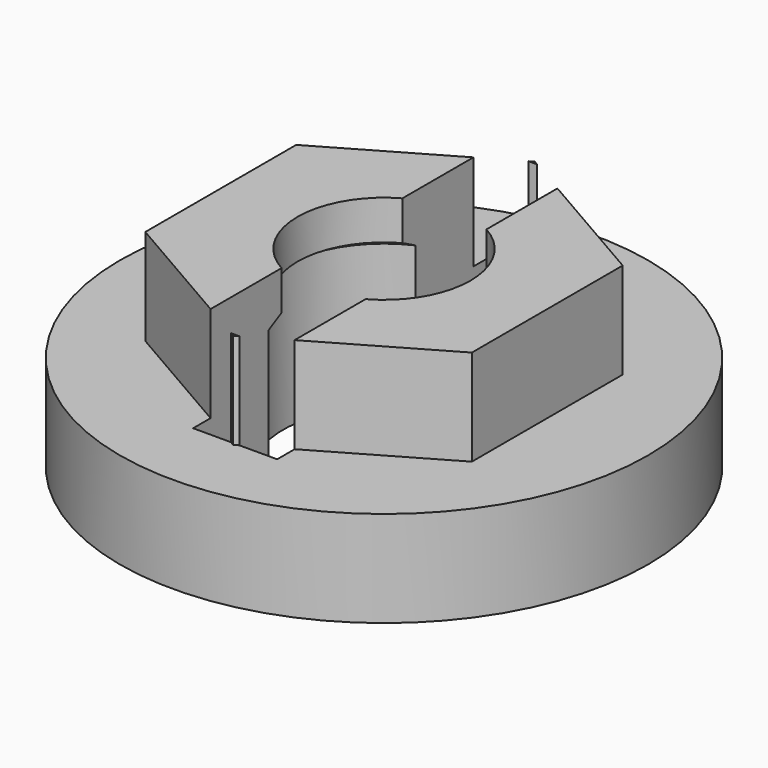
from build123d import *

# Parameters (mm, degrees)
F5_DEPTH  = 4
F4_R      = 5.5
F6_DEPTH  = 2
F7_W      = 1.75
F7_H      = 7.75
F8_DEPTH  = 5
F10_D     = 3.6
F11_D     = 4.2
F11_DEPTH = 3
F11_TIP   = 1.2618073


with BuildPart() as f5:
    # F4 (on Top) → F5 (new body)
    with BuildSketch(Plane.XY):
        Polygon((3.4, -1.9629909152), (3.4, 1.9629909152), (0, 3.9259818305), (-3.4, 1.9629909152), (-3.4, -1.9629909152), (0, -3.9259818305), align=None)
        Polygon((3.4, -1.9629909152), (3.4, 1.9629909152), (0, 3.9259818305), (-3.4, 1.9629909152), (-3.4, -1.9629909152), (0, -3.9259818305), align=None)
        Polygon((3.4, -1.9629909152), (3.4, 1.9629909152), (0, 3.9259818305), (-3.4, 1.9629909152), (-3.4, -1.9629909152), (0, -3.9259818305), align=None)
    extrude(amount=F5_DEPTH)

    # F4 (on Top) → F6 (join)
    with BuildSketch(Plane.XY):
        Circle(F4_R)
        Polygon((0, 3.9259818305), (3.4, 1.9629909152), (3.4, -1.9629909152), (0, -3.9259818305), (-3.4, -1.9629909152), (-3.4, 1.9629909152), align=None, mode=Mode.SUBTRACT)
    extrude(amount=F6_DEPTH)

    # F7 (on Top) → F8 (cut)
    with BuildSketch(Plane.XY):
        Rectangle(F7_W, F7_H)
    extrude(amount=F8_DEPTH, mode=Mode.SUBTRACT)

    # F10 (through all)
    with Locations(Plane(origin=(0, 0, 0), x_dir=(1, 0, 0), z_dir=(0, 0, -1))):
        with Locations((0, 0)):
            Hole(F10_D / 2)

    # F11
    with Locations(Plane(origin=(0, 0, 0), x_dir=(1, 0, 0), z_dir=(0, 0, -1))):
        with Locations((0, 0)):
            Hole(F11_D / 2, depth=F11_DEPTH)
            with Locations((0, 0, -(F11_DEPTH + F11_TIP / 2))):  # 118° drill point
                Cone(0, F11_D / 2, F11_TIP, mode=Mode.SUBTRACT)


solid = f5.part
